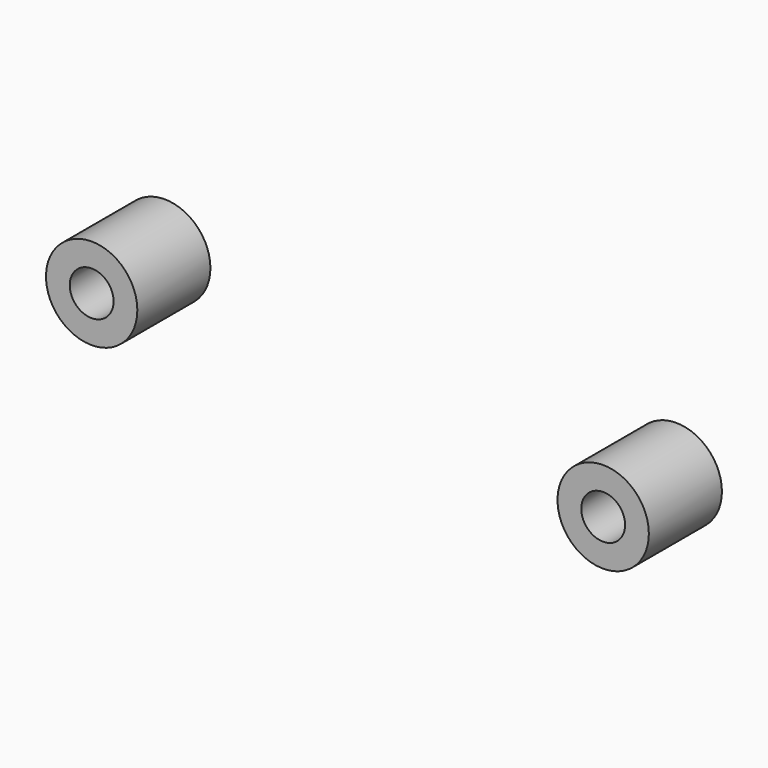
from build123d import *

# Parameters (mm, degrees)
F0_R     = 12.5
F0_R_2   = 6
F1_DEPTH = 25
F2_R     = 12.5
F2_R_2   = 6
F3_DEPTH = 12.5


with BuildPart() as f1:
    # F0 (on Front) → F1 (new body)
    with BuildSketch(Plane.XZ):
        Circle(F0_R)
        Circle(F0_R_2, mode=Mode.SUBTRACT)
    extrude(amount=-F1_DEPTH)


with BuildPart() as f3:
    # F2 (on Front) → F3 (new body, symmetric)
    with BuildSketch(Plane.XZ):
        with Locations((150, 0)):
            Circle(F2_R)
        with Locations((150, 0)):
            Circle(F2_R_2, mode=Mode.SUBTRACT)
    extrude(amount=F3_DEPTH, both=True)


solid = Compound([f1.part, f3.part])
